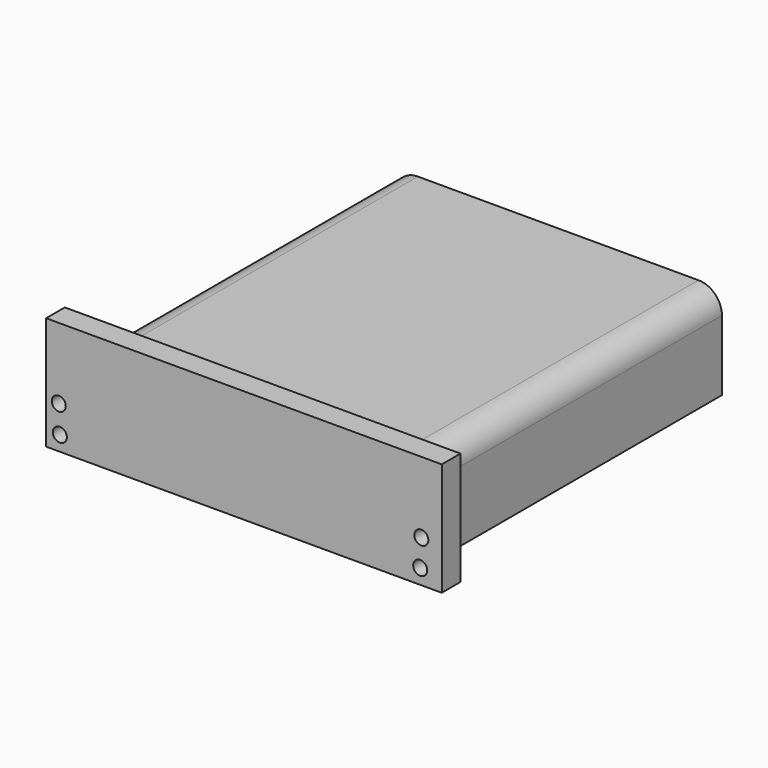
from build123d import *

# Parameters (mm, degrees)
F1_DEPTH = 101.6
F2_R     = 1.905
F3_DEPTH = 6.35


with BuildPart() as f1:
    # F0 (on Front) → F1 (new body)
    with BuildSketch(Plane.XZ):
        with BuildLine():
            Line((-34.925, 19.05), (0, 19.05))
            Line((0, 19.05), (34.925, 19.05))
            ThreePointArc((34.925, 19.05), (37.170064, 18.120064), (38.1, 15.875))
            Line((38.1, 15.875), (38.1, 0))
            Line((38.1, 0), (44.45, 0))
            Line((44.45, 0), (44.45, 19.05))
            ThreePointArc((44.45, 19.05), (42.590128, 23.540128), (38.1, 25.4))
            Line((38.1, 25.4), (0, 25.4))
            Line((0, 25.4), (-38.1, 25.4))
            ThreePointArc((-38.1, 25.4), (-42.590128, 23.540128), (-44.45, 19.05))
            Line((-44.45, 19.05), (-44.45, 0))
            Line((-44.45, 0), (-38.1, 0))
            Line((-38.1, 0), (-38.1, 15.875))
            ThreePointArc((-38.1, 15.875), (-37.170064, 18.120064), (-34.925, 19.05))
        make_face()
    extrude(amount=F1_DEPTH)

    # F2 (on face) → F3 (join)
    with BuildSketch(Plane.XZ.offset(101.6)):
        with BuildLine():
            Line((-52.65341, 0), (-44.45, 0))
            Line((-44.45, 0), (-44.45, 19.05))
            ThreePointArc((-44.45, 19.05), (-42.590128, 23.540128), (-38.1, 25.4))
            Line((-38.1, 25.4), (38.1, 25.4))
            ThreePointArc((38.1, 25.4), (42.590128, 23.540128), (44.45, 19.05))
            Line((44.45, 19.05), (44.45, 0))
            Line((44.45, 0), (54.757327, 0))
            Line((54.757327, 0), (54.757327, 30.693583))
            Line((54.757327, 30.693583), (-52.65341, 30.693583))
            Line((-52.65341, 30.693583), (-52.65341, 0))
        make_face()
        with Locations((-48.913483, 4.065295)):
            Circle(F2_R, mode=Mode.SUBTRACT)
        with Locations((-49.212676, 11.395554)):
            Circle(F2_R, mode=Mode.SUBTRACT)
        with Locations((48.913483, 4.065295)):
            Circle(F2_R, mode=Mode.SUBTRACT)
        with Locations((49.212676, 11.395554)):
            Circle(F2_R, mode=Mode.SUBTRACT)
        with BuildLine():
            Line((-44.45, 0), (-38.1, 0))
            Line((-38.1, 0), (-38.1, 15.875))
            ThreePointArc((-38.1, 15.875), (-37.170064, 18.120064), (-34.925, 19.05))
            Line((-34.925, 19.05), (34.925, 19.05))
            ThreePointArc((34.925, 19.05), (37.170064, 18.120064), (38.1, 15.875))
            Line((38.1, 15.875), (38.1, 0))
            Line((38.1, 0), (44.45, 0))
            Line((44.45, 0), (44.45, 19.05))
            ThreePointArc((44.45, 19.05), (42.590128, 23.540128), (38.1, 25.4))
            Line((38.1, 25.4), (-38.1, 25.4))
            ThreePointArc((-38.1, 25.4), (-42.590128, 23.540128), (-44.45, 19.05))
            Line((-44.45, 19.05), (-44.45, 0))
        make_face()
        with BuildLine():
            Line((-38.1, 0), (0, 0))
            Line((0, 0), (38.1, 0))
            Line((38.1, 0), (38.1, 15.875))
            ThreePointArc((38.1, 15.875), (37.170064, 18.120064), (34.925, 19.05))
            Line((34.925, 19.05), (-34.925, 19.05))
            ThreePointArc((-34.925, 19.05), (-37.170064, 18.120064), (-38.1, 15.875))
            Line((-38.1, 15.875), (-38.1, 0))
        make_face()
    extrude(amount=F3_DEPTH)


solid = f1.part
